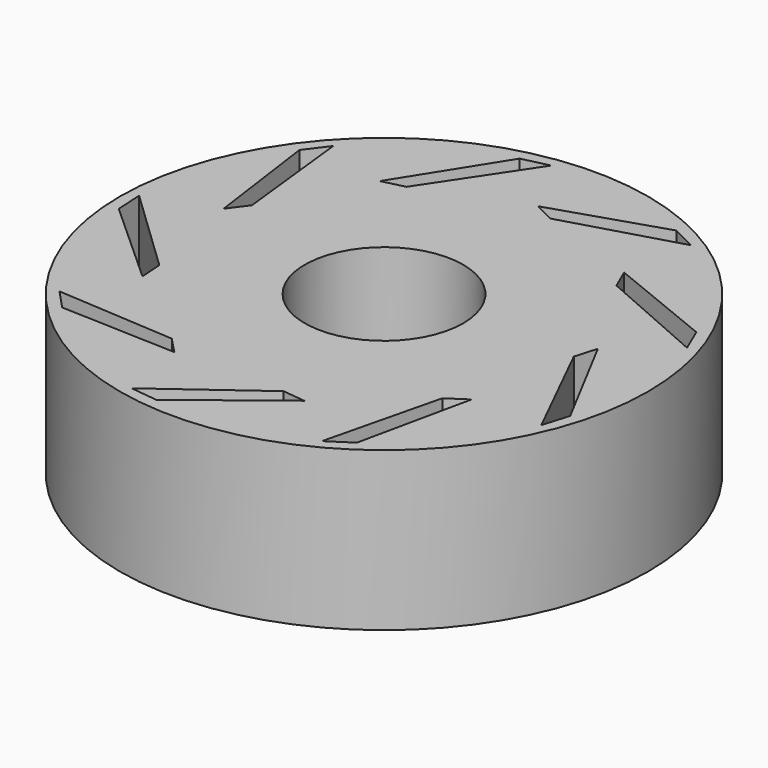
from build123d import *

# Parameters (mm, degrees)
F0_R     = 12.7
F0_R_2   = 3.81
F1_DEPTH = 3.81


with BuildPart() as f1:
    # F0 (on Top) → F1 (new body, symmetric)
    with BuildSketch(Plane.XY):
        Circle(F0_R)
        Polygon((-9.650616, -7.443798), (-3.955839, -7.81104), (-3.193578, -8.609821), (-8.750626, -8.403624), align=None, mode=Mode.SUBTRACT)
        Polygon((-12.177582, 0.501016), (-8.051188, -3.44084), (-7.980709, -4.542713), (-12.105114, -0.812755), align=None, mode=Mode.SUBTRACT)
        Circle(F0_R_2, mode=Mode.SUBTRACT)
        Polygon((-2.608019, -11.905577), (1.990491, -8.526368), (3.087863, -8.648298), (-1.301624, -12.062344), align=None, mode=Mode.SUBTRACT)
        Polygon((5.654898, -10.796603), (7.005449, -5.252114), (7.924459, -4.64014), (6.756424, -10.076959), align=None, mode=Mode.SUBTRACT)
        Polygon((11.271826, -4.635779), (8.742479, 0.479663), (9.053113, 1.539191), (11.653065, -3.376453), align=None, mode=Mode.SUBTRACT)
        Polygon((-9.033578, 1.649981), (-9.795484, 7.158411), (-9.006522, 8.211399), (-8.379297, 2.539368), align=None, mode=Mode.SUBTRACT)
        Polygon((-1.62121, 12.079578), (-4.78664, 7.331377), (-5.859535, 7.07063), (-2.902438, 11.780077), align=None, mode=Mode.SUBTRACT)
        Polygon((11.614542, 3.694177), (6.388806, 5.987), (5.945714, 6.998317), (11.097108, 4.903933), align=None, mode=Mode.SUBTRACT)
        Polygon((6.522684, 10.295587), (1.04574, 8.692953), (0.05625, 9.182853), (5.348691, 10.889714), align=None, mode=Mode.SUBTRACT)
    extrude(amount=F1_DEPTH, both=True)


solid = f1.part
